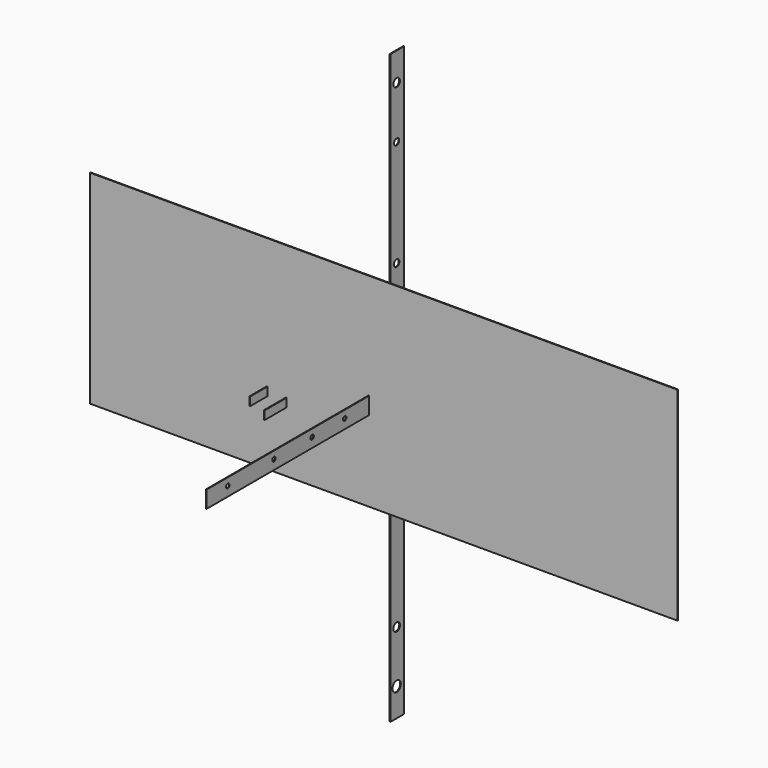
from build123d import *

# Parameters (mm, degrees)
F0_W     = 1729
F0_H     = 598
F1_DEPTH = 2
F2_W     = 598
F2_H     = 50
F2_R     = 6.35
F3_DEPTH = 1
F4_W     = 50
F4_H     = 1729
F4_R     = 15.426933
F4_R_2   = 12.107831
F4_R_3   = 13.992805
F4_R_4   = 10.288674
F4_R_5   = 10.060686
F4_R_6   = 9.251667
F4_R_7   = 12.038328
F5_DEPTH = 1
F6_W     = 65
F6_H     = 25
F7_DEPTH = 1
F8_W     = 81
F8_H     = 25
F9_DEPTH = 1


with BuildPart() as f1:
    # F0 (on Front) → F1 (new body)
    with BuildSketch(Plane.XZ):
        Rectangle(F0_W, F0_H)
    extrude(amount=-F1_DEPTH)


with BuildPart() as f3:
    # F2 (on Right) → F3 (new body, symmetric)
    with BuildSketch(Plane.YZ):
        with Locations((-353.639598, 0)):
            Rectangle(F2_W, F2_H)
        with Locations((-574.639598, 3)):
            Circle(F2_R, mode=Mode.SUBTRACT)
        with Locations((-404.639598, 3)):
            Circle(F2_R, mode=Mode.SUBTRACT)
        with Locations((-264.639598, 3)):
            Circle(F2_R, mode=Mode.SUBTRACT)
        with Locations((-144.639598, 3)):
            Circle(F2_R, mode=Mode.SUBTRACT)
    extrude(amount=F3_DEPTH, both=True)


with BuildPart() as f5:
    # F4 (on Right) → F5 (new body, symmetric)
    with BuildSketch(Plane.YZ):
        with Locations((48.276175, 13.243281)):
            Rectangle(F4_W, F4_H)
        with Locations((46.276175, -768.256719)):
            Circle(F4_R, mode=Mode.SUBTRACT)
        with Locations((46.276175, -614.756719)):
            Circle(F4_R_2, mode=Mode.SUBTRACT)
        with Locations((46.276175, -300.756719)):
            Circle(F4_R_3, mode=Mode.SUBTRACT)
        with Locations((46.276175, 13.243281)):
            Circle(F4_R_4, mode=Mode.SUBTRACT)
        with Locations((46.276175, 327.243281)):
            Circle(F4_R_5, mode=Mode.SUBTRACT)
        with Locations((46.276175, 641.243281)):
            Circle(F4_R_6, mode=Mode.SUBTRACT)
        with Locations((46.276175, 794.743281)):
            Circle(F4_R_7, mode=Mode.SUBTRACT)
    extrude(amount=F5_DEPTH, both=True)


with BuildPart() as f7:
    # F6 (on Right) → F7 (new body, symmetric)
    with BuildSketch(Plane.YZ):
        with Locations((-460.33293, 188.342434)):
            Rectangle(F6_W, F6_H)
    extrude(amount=F7_DEPTH, both=True)


with BuildPart() as f9:
    # F8 (on Right) → F9 (new body, symmetric)
    with BuildSketch(Plane.YZ):
        with Locations((-398.847103, 130.776368)):
            Rectangle(F8_W, F8_H)
    extrude(amount=F9_DEPTH, both=True)


solid = Compound([f1.part, f3.part, f5.part, f7.part, f9.part])
